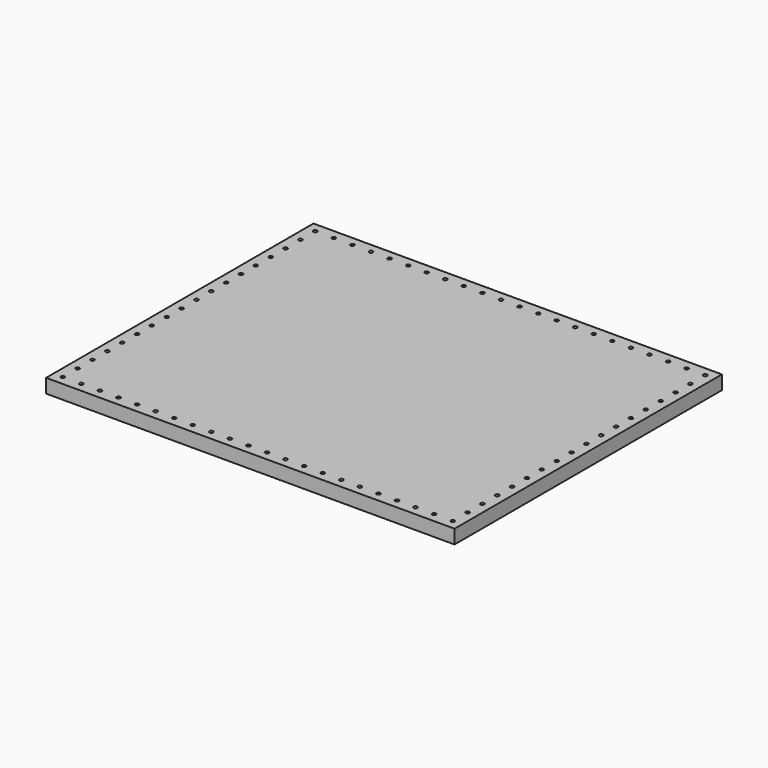
from build123d import *

# Parameters (mm, degrees)
F0_W     = 558.8
F0_H     = 457.2
F1_DEPTH = 19.05
F3_D     = 5.1054


with BuildPart() as f1:
    # F0 (on Top) → F1 (new body)
    with BuildSketch(Plane.XY):
        with Locations((29.861329, -21.937743)):
            Rectangle(F0_W, F0_H)
        with Locations((29.861329, -21.937743)):
            Rectangle(F0_W, F0_H)
    extrude(amount=F1_DEPTH)

    # F3 (through all)
    with Locations(Plane.XY.offset(19.05)):
        with Locations((-236.838671, -34.637743), (-236.838671, 66.962257), (144.161329, 193.962257), (-186.038671, 193.962257), (296.561329, -161.637743), (-33.638671, 193.962257), (93.361329, -237.837743), (118.761329, 193.962257), (245.761329, -237.837743), (220.361329, 193.962257), (93.361329, 193.962257), (296.561329, -110.837743), (296.561329, 117.762257), (271.161329, 193.962257), (-84.438671, -237.837743), (296.561329, -237.837743), (296.561329, -9.237743), (-211.438671, -237.837743), (17.161329, -237.837743), (-160.638671, -237.837743), (296.561329, 143.162257), (-135.238671, 193.962257), (194.961329, 193.962257), (296.561329, -34.637743), (-236.838671, -85.437743), (296.561329, 66.962257), (-135.238671, -237.837743), (-236.838671, 117.762257), (17.161329, 193.962257), (-236.838671, -187.037743), (-236.838671, 143.162257), (-236.838671, 41.562257), (-236.838671, 16.162257), (296.561329, -85.437743), (42.561329, 193.962257), (-59.038671, -237.837743), (-236.838671, 92.362257), (-59.038671, 193.962257), (271.161329, -237.837743), (-109.838671, 193.962257), (-236.838671, -161.637743), (67.961329, -237.837743), (296.561329, -60.037743), (-160.638671, 193.962257), (169.561329, -237.837743), (-236.838671, -136.237743), (-236.838671, -212.437743), (-186.038671, -237.837743), (-8.238671, -237.837743), (-236.838671, -110.837743), (118.761329, -237.837743), (-236.838671, -237.837743), (-33.638671, -237.837743), (296.561329, -136.237743), (296.561329, 41.562257), (-236.838671, 168.562257), (-211.438671, 193.962257), (-236.838671, 193.962257), (169.561329, 193.962257), (296.561329, -212.437743), (220.361329, -237.837743), (-236.838671, -60.037743), (-109.838671, -237.837743), (321.961329, 193.962257), (-84.438671, 193.962257), (-236.838671, -9.237743), (245.761329, 193.962257), (296.561329, -187.037743), (296.561329, 193.962257), (-8.238671, 193.962257), (144.161329, -237.837743), (194.961329, -237.837743), (296.561329, 168.562257), (42.561329, -237.837743), (67.961329, 193.962257), (296.561329, 92.362257), (296.561329, 16.162257)):
            Hole(F3_D / 2)


solid = f1.part
